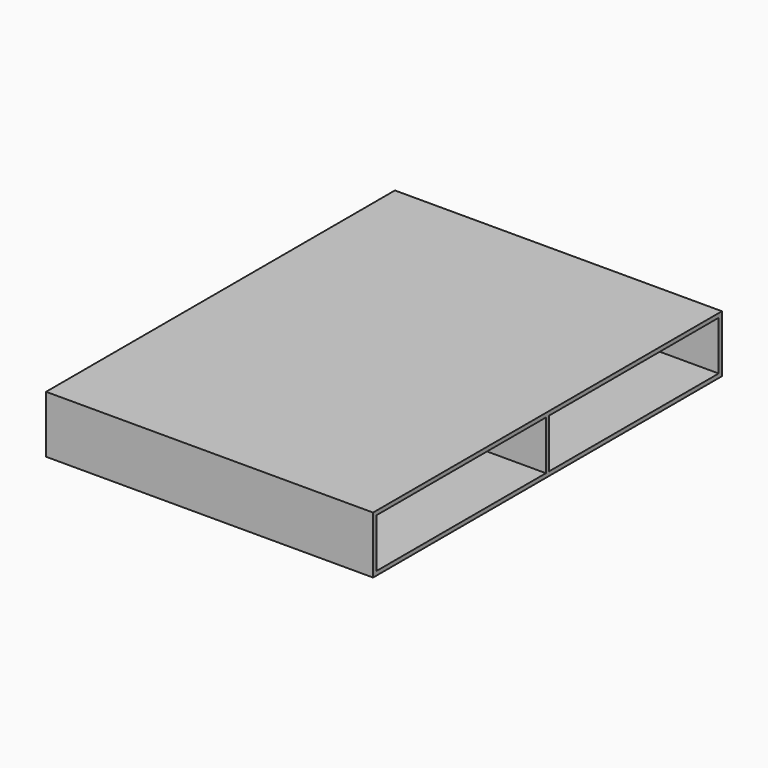
from build123d import *

# Parameters (mm, degrees)
F0_W     = 19.05
F0_H     = 19.05
F0_H_2   = 228.6
F1_DEPTH = 1524


with BuildPart() as f1:
    # F0 (on Right) → F1 (new body)
    with BuildSketch(Plane.YZ):
        with Locations((-1006.475, 257.175)):
            Rectangle(F0_W, F0_H)
        with Locations((1006.475, 257.175)):
            Rectangle(F0_W, F0_H)
        with Locations((-1006.475, 9.525)):
            Rectangle(F0_W, F0_H)
        with Locations((1006.475, 9.525)):
            Rectangle(F0_W, F0_H)
        with Locations((-1006.475, 133.35)):
            Rectangle(F0_W, F0_H_2)
        with Locations((1006.475, 133.35)):
            Rectangle(F0_W, F0_H_2)
        Polygon((-9.525, 19.05), (-996.95, 19.05), (-996.95, 0), (996.95, 0), (996.95, 19.05), (9.525, 19.05), align=None)
        Polygon((996.95, 266.7), (-996.95, 266.7), (-996.95, 247.65), (-9.525, 247.65), (9.525, 247.65), (996.95, 247.65), align=None)
        with Locations((0, 133.35)):
            Rectangle(F0_W, F0_H_2)
    extrude(amount=F1_DEPTH)


solid = f1.part
